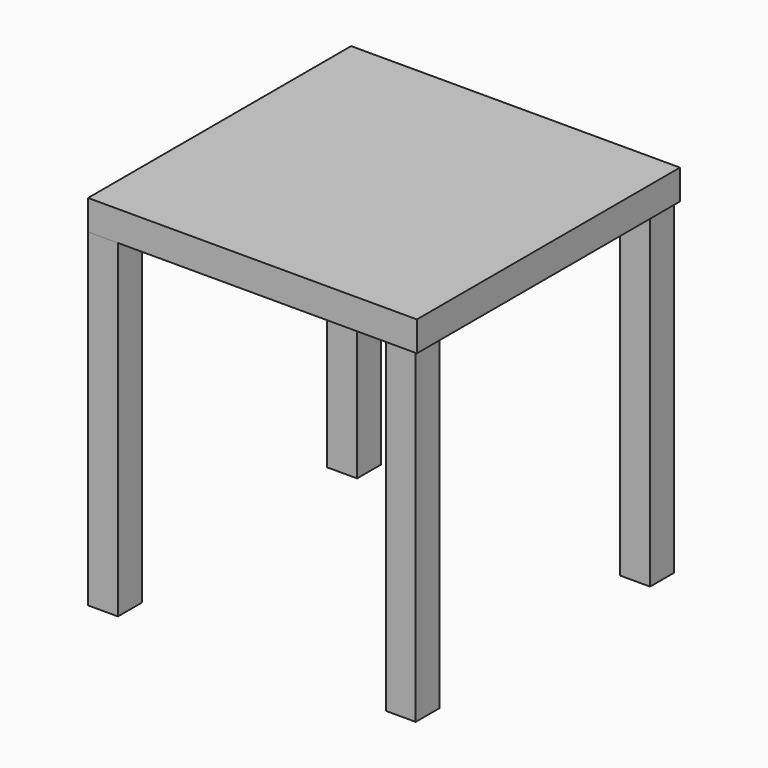
from build123d import *

# Parameters (mm, degrees)
BOX001_W     = 55
BOX001_H     = 55
BOX001_DEPTH = 5
BOX002_W     = 5
BOX002_H     = 5
BOX002_DEPTH = 55
BOX003_W     = 5
BOX003_H     = 5
BOX003_DEPTH = 55
BOX004_W     = 5
BOX004_H     = 5
BOX004_DEPTH = 55
BOX005_W     = 5
BOX005_H     = 5
BOX005_DEPTH = 55


with BuildPart() as caja001:
    # Box001 → Box001 (new body)
    with BuildSketch(Plane.XY.offset(37)):
        with Locations((27.5, 27.5)):
            Rectangle(BOX001_W, BOX001_H)
    extrude(amount=BOX001_DEPTH)


with BuildPart() as caja002:
    # Box002 → Box002 (new body)
    with BuildSketch(Plane.XY.offset(-18)):
        with Locations((2.5, 2.5)):
            Rectangle(BOX002_W, BOX002_H)
    extrude(amount=BOX002_DEPTH)


with BuildPart() as caja003:
    # Box003 → Box003 (new body)
    with BuildSketch(Plane(origin=(49, 1, -18), x_dir=(1, 0, 0), z_dir=(0, 0, 1))):
        with Locations((2.5, 2.5)):
            Rectangle(BOX003_W, BOX003_H)
    extrude(amount=BOX003_DEPTH)


with BuildPart() as caja004:
    # Box004 → Box004 (new body)
    with BuildSketch(Plane(origin=(49, 50, -18), x_dir=(1, 0, 0), z_dir=(0, 0, 1))):
        with Locations((2.5, 2.5)):
            Rectangle(BOX004_W, BOX004_H)
    extrude(amount=BOX004_DEPTH)


with BuildPart() as caja005:
    # Box005 → Box005 (new body)
    with BuildSketch(Plane(origin=(0, 50, -18), x_dir=(1, 0, 0), z_dir=(0, 0, 1))):
        with Locations((2.5, 2.5)):
            Rectangle(BOX005_W, BOX005_H)
    extrude(amount=BOX005_DEPTH)


solid = Compound([caja001.part, caja002.part, caja003.part, caja004.part, caja005.part])
